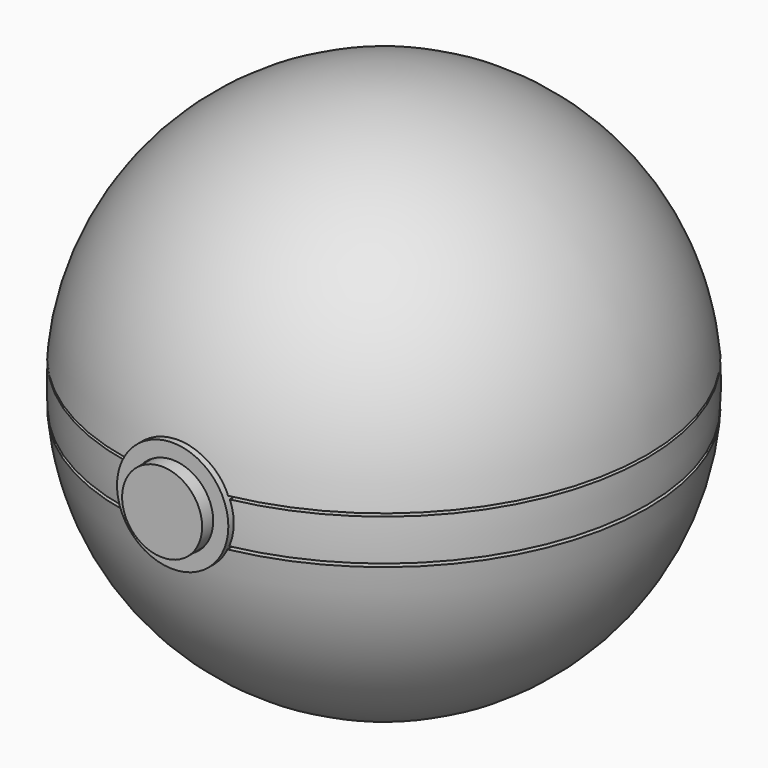
from build123d import *

# Parameters (mm, degrees)
F4_R     = 10.7149100796
F4_R_2   = 7.7990836669
F5_DEPTH = 50.8
F6_R     = 7.7028179703
F7_DEPTH = 53.34


with BuildPart() as f1:
    # F0 (on Front) → F1 (revolve)
    with BuildSketch(Plane.XZ):
        with BuildLine():
            Line((0, 4.4212299399), (50.6072398558, 4.4212299399))
            ThreePointArc((50.6072398558, 4.4212299399), (34.3223070251, 37.4515585854), (0, 50.8))
            Line((0, 50.8), (0, 4.4212299399))
        make_face()
    revolve(axis=Axis((0, 0, -3.1376481056), (0, 0, -1)))


with BuildPart() as f1b:
    # F0 (on Front) → F1, piece 2 (revolve)
    with BuildSketch(Plane.XZ):
        with BuildLine():
            ThreePointArc((-50.5815097067, -4.7064716928), (-34.216598589, -37.5481608204), (0, -50.8))
            Line((0, -50.8), (0, -4.7064716928))
            Line((0, -4.7064716928), (-50.5815097067, -4.7064716928))
        make_face()
    revolve(axis=Axis((0, 0, -3.1376481056), (0, 0, -1)))


with BuildPart() as f3:
    # F2 (on Front) → F3 (revolve)
    with BuildSketch(Plane.XZ):
        with BuildLine():
            Line((0, 3.8311993703), (-50.5551127039, 3.8311993703))
            ThreePointArc((-50.5551127039, 3.8311993703), (-50.6998581453, -0.1479633753), (-50.5318896475, -4.126213491))
            Line((-50.5318896475, -4.126213491), (0, -4.126213491))
            Line((0, -4.126213491), (0, 3.8311993703))
        make_face()
    revolve(axis=Axis((0, 0, -3.137646243), (0, 0, -1)))


with BuildPart() as f5:
    # F4 (on Front) → F5 (new body)
    with BuildSketch(Plane.XZ):
        Circle(F4_R)
        Circle(F4_R_2, mode=Mode.SUBTRACT)
    extrude(amount=F5_DEPTH)


with BuildPart() as f7:
    # F6 (on Front) → F7 (new body)
    with BuildSketch(Plane.XZ):
        Circle(F6_R)
    extrude(amount=F7_DEPTH)


solid = Compound([f1.part, f1b.part, f3.part, f5.part, f7.part])
